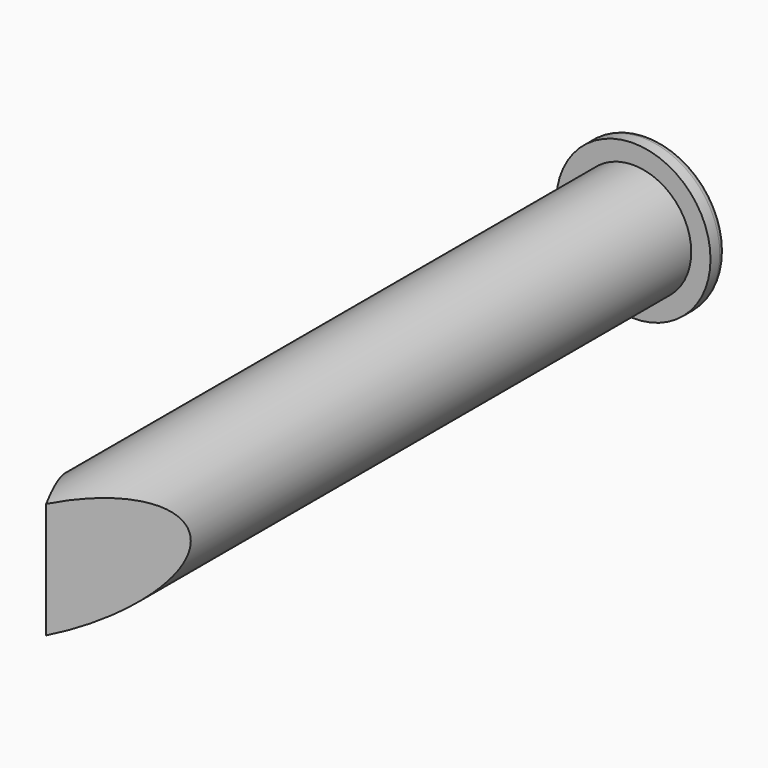
from build123d import *

# Parameters (mm, degrees)
F0_R          = 0.75
F1_DEPTH      = 10
F0_R_2        = 1
F2_DEPTH      = 0.25
F3_R          = 0.1
F5_DEPTH      = 25
F5_DEPTH_BACK = 25


with BuildPart() as f1:
    # F0 (on Front) → F1 (new body)
    with BuildSketch(Plane.XZ):
        Circle(F0_R)
    extrude(amount=F1_DEPTH)

    # F0 (on Front) → F2 (join)
    with BuildSketch(Plane.XZ):
        Circle(F0_R_2)
        Circle(F0_R, mode=Mode.SUBTRACT)
    extrude(amount=F2_DEPTH)

    # F3
    f3_edges = [f1.edges().sort_by_distance(p)[0] for p in [
        (-1, 0, 0),
    ]]
    fillet(f3_edges, radius=F3_R)

    # F4 (on Top) → F5 (cut, two sides)
    with BuildSketch(Plane.XY) as f5_sk:
        Polygon((-0.999971, -8.26199), (-0.999971, -10.461405), (0.999971, -10.461405), (0.999971, -8.26199), (0.799971, -8.26199), (0, -9.762005), (-0.799971, -8.26199), align=None)
    extrude(amount=F5_DEPTH, mode=Mode.SUBTRACT)
    extrude(f5_sk.sketch, amount=-F5_DEPTH_BACK, mode=Mode.SUBTRACT)


solid = f1.part
